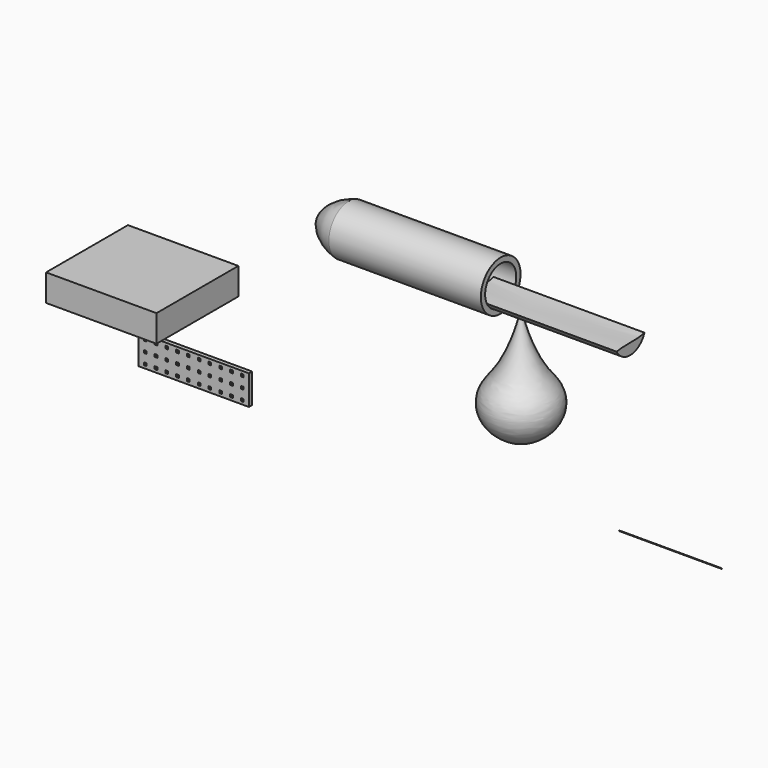
from build123d import *

# Parameters (mm, degrees)
F0_W      = 20.5
F0_H      = 5.5
F0_W_2    = 0.5
F0_H_2    = 0.5
F1_DEPTH  = 0.75
F2_R      = 0.05
F3_DEPTH  = 19
F4_W      = 20.5
F4_H      = 19
F5_DEPTH  = 5
F11_DEPTH = 28


with BuildPart() as f1:
    # F0 (on Front) → F1 (new body)
    with BuildSketch(Plane.XZ):
        with Locations((-80.4057919383, -15.6022887528)):
            Rectangle(F0_W, F0_H)
        with Locations((-89.4057919383, -17.6193666086)):
            Rectangle(F0_W_2, F0_H_2, mode=Mode.SUBTRACT)
        with Locations((-87.4057919383, -17.6193666086)):
            Rectangle(F0_W_2, F0_H_2, mode=Mode.SUBTRACT)
        with Locations((-85.4057919383, -17.6193666086)):
            Rectangle(F0_W_2, F0_H_2, mode=Mode.SUBTRACT)
        with Locations((-83.4057919383, -17.6193666086)):
            Rectangle(F0_W_2, F0_H_2, mode=Mode.SUBTRACT)
        with Locations((-81.4057919383, -17.6193666086)):
            Rectangle(F0_W_2, F0_H_2, mode=Mode.SUBTRACT)
        with Locations((-89.4057919383, -15.6193666086)):
            Rectangle(F0_W_2, F0_H_2, mode=Mode.SUBTRACT)
        with Locations((-87.4057919383, -15.6193666086)):
            Rectangle(F0_W_2, F0_H_2, mode=Mode.SUBTRACT)
        with Locations((-85.4057919383, -15.6193666086)):
            Rectangle(F0_W_2, F0_H_2, mode=Mode.SUBTRACT)
        with Locations((-83.4057919383, -15.6193666086)):
            Rectangle(F0_W_2, F0_H_2, mode=Mode.SUBTRACT)
        with Locations((-81.4057919383, -15.6193666086)):
            Rectangle(F0_W_2, F0_H_2, mode=Mode.SUBTRACT)
        with Locations((-79.4057919383, -17.6193666086)):
            Rectangle(F0_W_2, F0_H_2, mode=Mode.SUBTRACT)
        with Locations((-77.4057919383, -17.6193666086)):
            Rectangle(F0_W_2, F0_H_2, mode=Mode.SUBTRACT)
        with Locations((-75.4057919383, -17.6193666086)):
            Rectangle(F0_W_2, F0_H_2, mode=Mode.SUBTRACT)
        with Locations((-73.4057919383, -17.6193666086)):
            Rectangle(F0_W_2, F0_H_2, mode=Mode.SUBTRACT)
        with Locations((-71.4057919383, -17.6193666086)):
            Rectangle(F0_W_2, F0_H_2, mode=Mode.SUBTRACT)
        with Locations((-79.4057919383, -15.6193666086)):
            Rectangle(F0_W_2, F0_H_2, mode=Mode.SUBTRACT)
        with Locations((-77.4057919383, -15.6193666086)):
            Rectangle(F0_W_2, F0_H_2, mode=Mode.SUBTRACT)
        with Locations((-75.4057919383, -15.6193666086)):
            Rectangle(F0_W_2, F0_H_2, mode=Mode.SUBTRACT)
        with Locations((-73.4057919383, -15.6193666086)):
            Rectangle(F0_W_2, F0_H_2, mode=Mode.SUBTRACT)
        with Locations((-71.4057919383, -15.6193666086)):
            Rectangle(F0_W_2, F0_H_2, mode=Mode.SUBTRACT)
        with Locations((-89.4057919383, -13.6022887528)):
            Rectangle(F0_W_2, F0_H_2, mode=Mode.SUBTRACT)
        with Locations((-87.4057919383, -13.6022887528)):
            Rectangle(F0_W_2, F0_H_2, mode=Mode.SUBTRACT)
        with Locations((-85.4057919383, -13.6022887528)):
            Rectangle(F0_W_2, F0_H_2, mode=Mode.SUBTRACT)
        with Locations((-83.4057919383, -13.6022887528)):
            Rectangle(F0_W_2, F0_H_2, mode=Mode.SUBTRACT)
        with Locations((-81.4057919383, -13.6022887528)):
            Rectangle(F0_W_2, F0_H_2, mode=Mode.SUBTRACT)
        with Locations((-79.4057919383, -13.6022887528)):
            Rectangle(F0_W_2, F0_H_2, mode=Mode.SUBTRACT)
        with Locations((-77.4057919383, -13.6022887528)):
            Rectangle(F0_W_2, F0_H_2, mode=Mode.SUBTRACT)
        with Locations((-75.4057919383, -13.6022887528)):
            Rectangle(F0_W_2, F0_H_2, mode=Mode.SUBTRACT)
        with Locations((-73.4057919383, -13.6022887528)):
            Rectangle(F0_W_2, F0_H_2, mode=Mode.SUBTRACT)
        with Locations((-71.4057919383, -13.6022887528)):
            Rectangle(F0_W_2, F0_H_2, mode=Mode.SUBTRACT)
    extrude(amount=F1_DEPTH)


with BuildPart() as f3:
    # F2 (on Right) → F3 (new body)
    with BuildSketch(Plane.YZ):
        with Locations((-2.4769112933, -15.0707624853)):
            Circle(F2_R)
    extrude(amount=F3_DEPTH)


with BuildPart() as f5:
    # F4 (on Top) → F5 (new body)
    with BuildSketch(Plane.XY):
        with Locations((-81.2566767027, -11.6442674911)):
            Rectangle(F4_W, F4_H)
    extrude(amount=F5_DEPTH)


with BuildPart() as f7:
    # F6 (on Front) → F7 (revolve)
    with BuildSketch(Plane.XZ):
        with BuildLine():
            add(Edge.make_bspline(
                [(-20.2320311219, 14.012856409), (-19.4882868281, 9.831524928), (-16.7907268646, 3.4821602733), (-13.4547507348, 0.3531147703), (-13.5515865326, -5.0042936466), (-18.2302639247, -7.9312218988), (-20.2320311219, -7.5911860913)],
                knots=[0, 0, 0, 0, 0.3318119663, 0.5357680394, 0.7470086366, 1, 1, 1, 1], degree=3))
            Line((-20.2320311219, 14.012856409), (-20.2320311219, -7.5911860913))
        make_face()
    revolve(axis=Axis((-20.2320311219, 0, 3.2108351588), (0, 0, -1)))


with BuildPart() as f9:
    # F8 (on Front) → F9 (revolve)
    with BuildSketch(Plane.XZ):
        with BuildLine():
            Line((-52.234553832, 11.5836048499), (-24.0174103528, 11.5836048499))
            Line((-24.0174103528, 11.5836048499), (-24.0174103528, 12.5801386312))
            Line((-24.0174103528, 12.5801386312), (-52.234553832, 12.5801386312))
            add(Edge.make_bspline(
                [(-52.234553832, 12.5801386312), (-55.2447848022, 13.2427780745), (-56.9377876818, 15.1857528836), (-57.0005513728, 16.1899346858)],
                knots=[0, 0, 0, 0, 5.9787423523, 5.9787423523, 5.9787423523, 5.9787423523], degree=3))
            Line((-57.0005513728, 16.1899346858), (-57.9435093849, 16.1899346858))
            add(Edge.make_bspline(
                [(-52.234553832, 11.5836048499), (-55.7901070926, 12.4724936345), (-57.1657336934, 14.3010459012), (-57.9435093849, 16.1899346858)],
                knots=[0, 0, 0, 0, 7.3355605146, 7.3355605146, 7.3355605146, 7.3355605146], degree=3))
        make_face()
    revolve(axis=Axis((-40.9804598689, 0, 16.1899346858), (-1, 0, 0)))


with BuildPart() as f11:
    # F10 (on Right) → F11 (new body)
    with BuildSketch(Plane.YZ):
        with BuildLine():
            ThreePointArc((-3.1200072507, 14.4755104502), (0.2630403523, 12.6204855343), (3.3340571662, 14.9560763055))
            add(Edge.make_bspline(
                [(-3.1200072507, 14.4755104502), (-0.9144920623, 14.8924682289), (1.1341209756, 14.3521744758), (3.3340571662, 14.9560763055)],
                knots=[0, 0, 0, 0, 6.4719310132, 6.4719310132, 6.4719310132, 6.4719310132], degree=3))
        make_face()
    extrude(amount=-F11_DEPTH)


solid = Compound([f1.part, f3.part, f5.part, f7.part, f9.part, f11.part])
